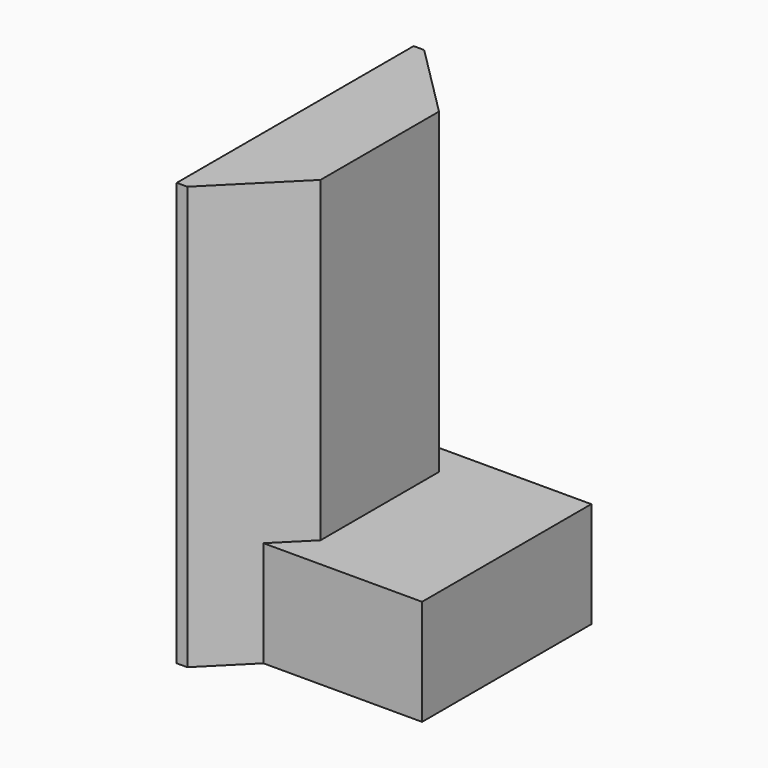
from build123d import *

# Parameters (mm, degrees)
BOX042_W                                         = 10
BOX042_H                                         = 10
BOX042_DEPTH                                     = 5
BOX041_W                                         = 4
BOX041_H                                         = 14
BOX041_DEPTH                                     = 20
CHAMFER004013007011015006009007001005003019_SIZE = 3.5


with BuildPart() as cube042:
    # Box042 → Box042 (new body)
    with BuildSketch(Plane(origin=(-4.5, -5, 0), x_dir=(1, 0, 0), z_dir=(0, 0, 1))):
        with Locations((5, 5)):
            Rectangle(BOX042_W, BOX042_H)
    extrude(amount=BOX042_DEPTH)


with BuildPart() as block_remover_btm:
    # Box041 → Box041 (new body)
    with BuildSketch(Plane(origin=(-4.5, -7, 0), x_dir=(1, 0, 0), z_dir=(0, 0, 1))):
        with Locations((2, 7)):
            Rectangle(BOX041_W, BOX041_H)
    extrude(amount=BOX041_DEPTH)

    # Chamfer004013007011015006009007001005003019
    chamfer004013007011015006009007001005003019_edges = [block_remover_btm.edges().sort_by_distance(p)[0] for p in [
        (-0.5, -7, 10),
        (-0.5, 7, 10),
    ]]
    chamfer(chamfer004013007011015006009007001005003019_edges, length=CHAMFER004013007011015006009007001005003019_SIZE)

    # Fusion004025023011: union Cube042
    add(cube042.part)


solid = block_remover_btm.part
